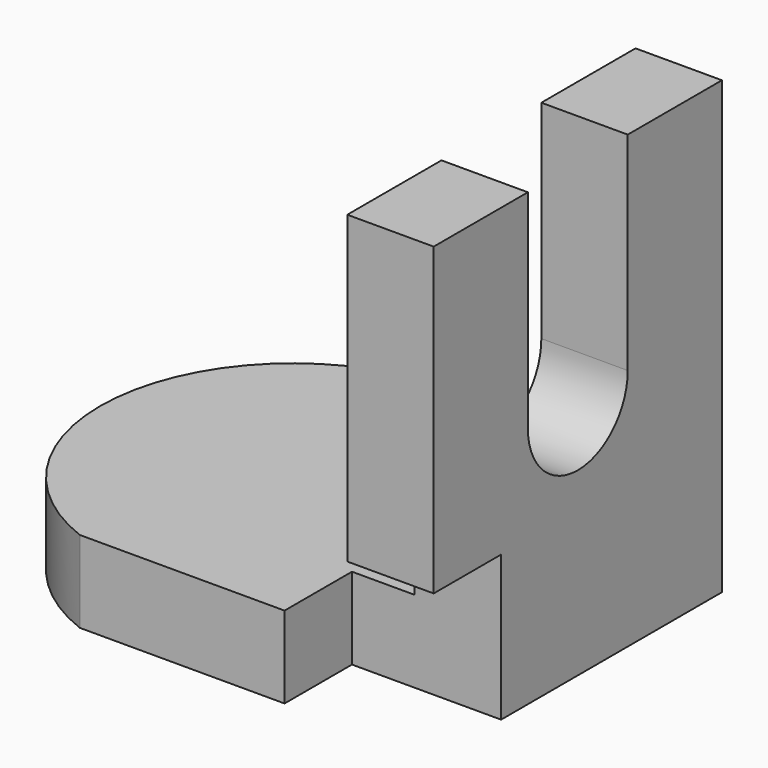
from build123d import *

# Parameters (mm, degrees)
F0_W     = 13.8414949179
F0_H     = 57.7164180577
F1_DEPTH = 13.1
F2_DEPTH = 72.2
F4_DEPTH = 13.8424949179
F6_DEPTH = 13.5


with BuildPart() as f1:
    # F0 (on Top) → F1 (new body)
    with BuildSketch(Plane.XY):
        with Locations((21.4151442051, 0)):
            Rectangle(F0_W, F0_H)
        with BuildLine():
            Line((-28.335891664, -28.8582090288), (14.4943967462, -28.8582090288))
            Line((14.4943967462, -28.8582090288), (14.4943967462, 28.8582090288))
            Line((14.4943967462, 28.8582090288), (-28.335891664, 28.8582090288))
            ThreePointArc((-28.335891664, 28.8582090288), (-48.1865539217, 0), (-28.335891664, -28.8582090288))
        make_face()
    extrude(amount=F1_DEPTH)

    # F0 (on Top) → F2 (join)
    with BuildSketch(Plane.XY):
        with Locations((21.4151442051, 0)):
            Rectangle(F0_W, F0_H)
    extrude(amount=F2_DEPTH)

    # F3 (on face) → F4 (cut, through all)
    with BuildSketch(Plane(origin=(14.4943967462, 0, 0), x_dir=(0, -1, 0), z_dir=(-1, 0, 0))):
        with BuildLine():
            Line((10, 72.2), (-10, 72.2))
            Line((-10, 72.2), (-10, 38.9287173748))
            ThreePointArc((-10, 38.9287173748), (0, 28.9287173748), (10, 38.9287173748))
            Line((10, 38.9287173748), (10, 72.2))
        make_face()
        with BuildLine():
            ThreePointArc((10, 72.2), (0, 82.2), (-10, 72.2))
            Line((-10, 72.2), (10, 72.2))
        make_face()
    extrude(amount=-F4_DEPTH, mode=Mode.SUBTRACT)

    # F5 (on face) → F6 (cut)
    with BuildSketch(Plane.XZ.offset(28.8582090288)):
        Polygon((28.335891664, 23.2873037457), (14.4943967462, 23.2873037457), (14.4943967462, 13.1), (4.4452203438, 13.1), (4.4452203438, 0), (28.335891664, 0), align=None)
    extrude(amount=-F6_DEPTH, mode=Mode.SUBTRACT)


solid = f1.part
